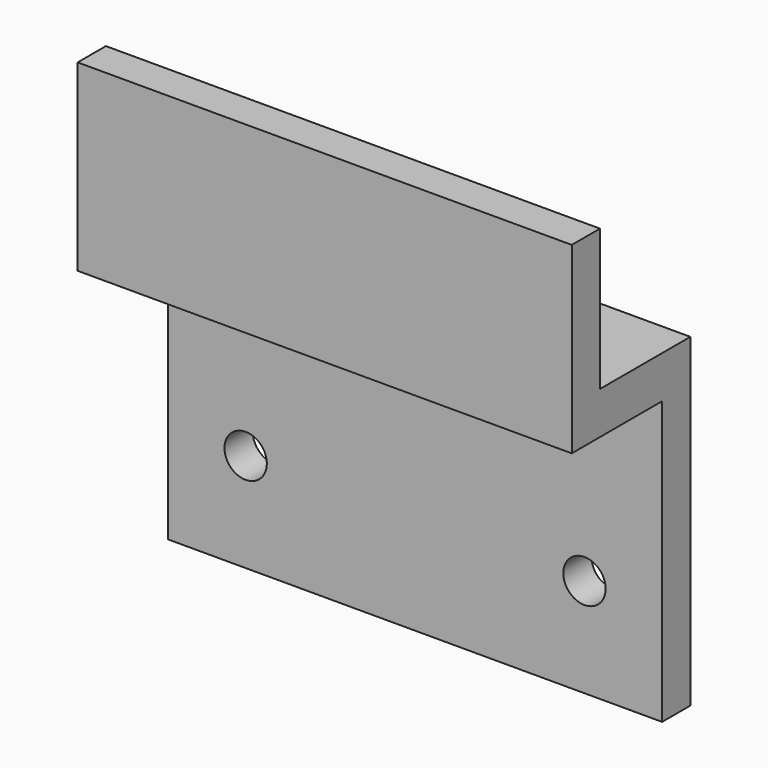
from build123d import *

# Parameters (mm, degrees)
F0_W     = 35
F0_H     = 20
F0_R     = 1.5
F1_DEPTH = 2.5
F2_W     = 35
F2_H     = 8
F2_H_2   = 2.5
F3_DEPTH = 3
F4_W     = 35
F4_H     = 2.5
F5_DEPTH = 10


with BuildPart() as f1:
    # F0 (on Front) → F1 (new body)
    with BuildSketch(Plane.XZ):
        with Locations((4.550226, 5.8339)):
            Rectangle(F0_W, F0_H)
        with Locations((-7.449774, 2.8339)):
            Circle(F0_R, mode=Mode.SUBTRACT)
        with Locations((16.550226, 2.8339)):
            Circle(F0_R, mode=Mode.SUBTRACT)
    extrude(amount=F1_DEPTH)

    # F2 (on face) → F3 (join)
    with BuildSketch(Plane.XY.offset(15.8339)):
        with Locations((4.550226, -6.5)):
            Rectangle(F2_W, F2_H)
        with Locations((4.550226, -1.25)):
            Rectangle(F2_W, F2_H_2)
    extrude(amount=F3_DEPTH)

    # F4 (on face) → F5 (join)
    with BuildSketch(Plane.XY.offset(18.8339)):
        with Locations((4.550226, -9.25)):
            Rectangle(F4_W, F4_H)
    extrude(amount=F5_DEPTH)


solid = f1.part
